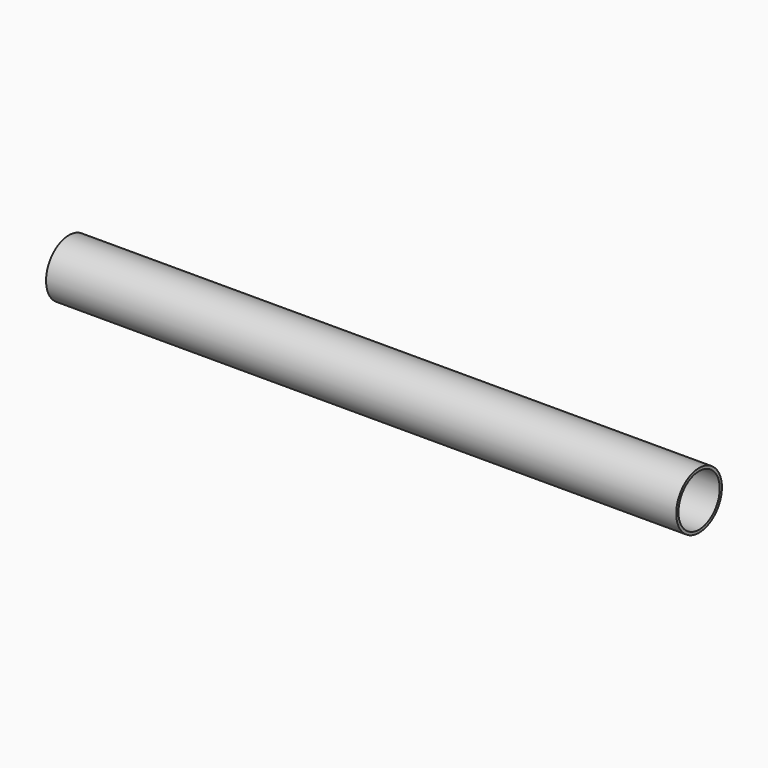
from build123d import *

# Parameters (mm, degrees)
F0_R     = 6.33069
F1_DEPTH = 139.7
F3_D     = 11.43


with BuildPart() as f1:
    # F0 (on Right) → F1 (new body)
    with BuildSketch(Plane.YZ):
        Circle(F0_R)
    extrude(amount=F1_DEPTH)

    # F3 (through all)
    with Locations(Plane.YZ.offset(139.7)):
        with Locations((0, 0)):
            Hole(F3_D / 2)


solid = f1.part
